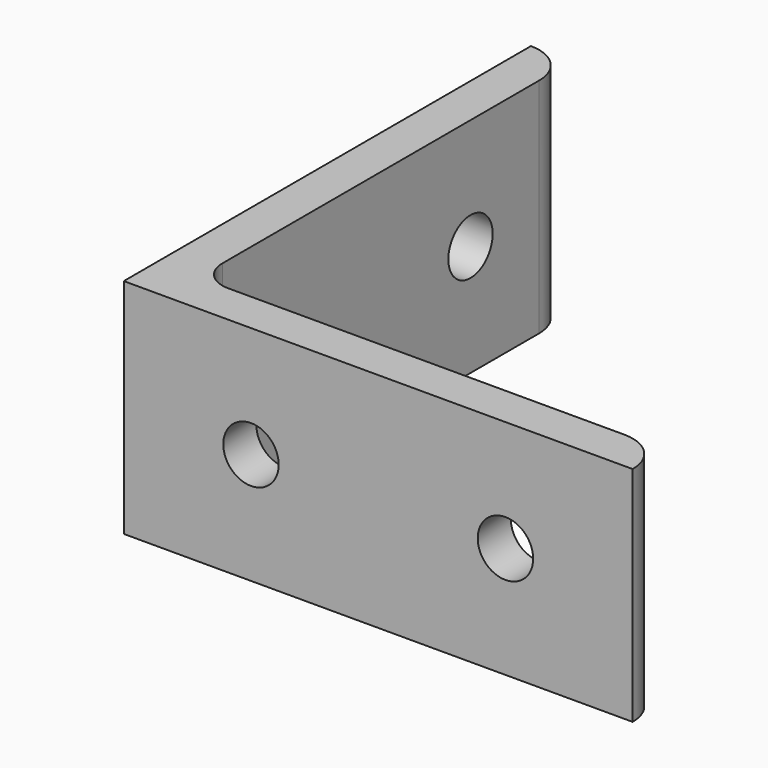
from build123d import *

# Parameters (mm, degrees)
PAD_DEPTH       = 33.33
SKETCH001_R     = 4.15
POCKET_DEPTH    = 76.201
SKETCH002_R     = 4.15
POCKET001_DEPTH = 76.201


with BuildPart() as part:
    # Sketch → Pad (new body)
    with BuildSketch(Plane.XY):
        with BuildLine():
            Line((0, 76.2), (0, 0))
            Line((0, 0), (76.2, 0))
            ThreePointArc((76.2, 0), (74.384062, 4.384062), (70, 6.2))
            Line((10.7, 6.2), (70, 6.2))
            ThreePointArc((6.2, 10.7), (7.518019, 7.518019), (10.7, 6.2))
            Line((6.2, 70), (6.2, 10.7))
            ThreePointArc((6.2, 70), (4.384062, 74.384062), (0, 76.2))
        make_face()
    extrude(amount=PAD_DEPTH)

    # Sketch001 → Pocket (cut, through all)
    with BuildSketch(Plane.XZ):
        with Locations((19.05, 16.665)):
            Circle(SKETCH001_R)
        with Locations((57.15, 16.665)):
            Circle(SKETCH001_R)
    extrude(amount=-POCKET_DEPTH, mode=Mode.SUBTRACT)

    # Sketch002 → Pocket001 (cut, through all)
    with BuildSketch(Plane.YZ):
        with Locations((19.05, 16.665)):
            Circle(SKETCH002_R)
        with Locations((57.15, 16.665)):
            Circle(SKETCH002_R)
    extrude(amount=POCKET001_DEPTH, mode=Mode.SUBTRACT)


solid = part.part
